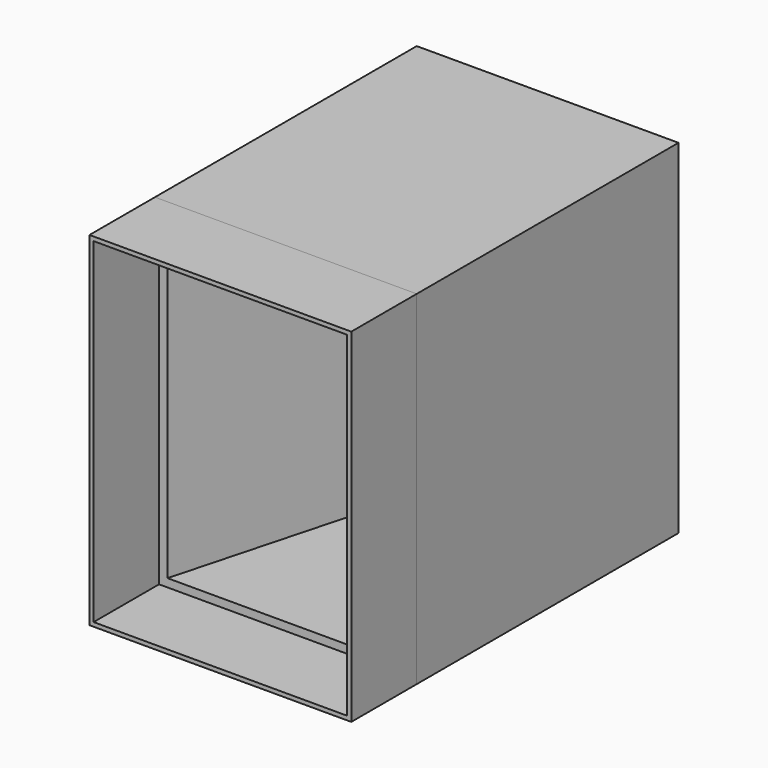
from build123d import *

# Parameters (mm, degrees)
F0_W     = 16
F0_H     = 21
F0_W_2   = 15.5
F0_H_2   = 20.5
F1_DEPTH = 5
F2_DEPTH = 20
F3_W     = 4.8666046932
F3_H     = 4.943083223
F5_T     = -0.5


with BuildPart() as f1:
    # F0 (on Front) → F1 (new body)
    with BuildSketch(Plane.XZ):
        Rectangle(F0_W, F0_H)
        Rectangle(F0_W_2, F0_H_2, mode=Mode.SUBTRACT)
    extrude(amount=F1_DEPTH)


with BuildPart() as f2:
    # F2 (new): a face of the model
    f2_faces = [f1.part.faces().sort_by_distance(p)[0] for p in [
        (0, 0, 10.4735992424),
    ]]
    extrude(f2_faces, amount=F2_DEPTH)


with BuildPart() as f4:
    # F0 (on Front) → F4 section 0
    with BuildSketch(Plane.XZ):
        Rectangle(F0_W_2, F0_H_2)
    # F3 (on face) → F4 section 1
    with BuildSketch(Plane(origin=(0, 20, 0), x_dir=(-1, 0, 0), z_dir=(0, 1, 0))):
        with Locations((-0.069523463, -7.7784583885)):
            Rectangle(F3_W, F3_H)
    loft()

    # F5
    f5_openings = [f4.faces().sort_by_distance(p)[0] for p in [
        (0, 0, 0),
        (0.069523, 20, -7.778458),
    ]]
    offset(amount=F5_T, openings=f5_openings)


solid = Compound([f1.part, f2.part, f4.part])
